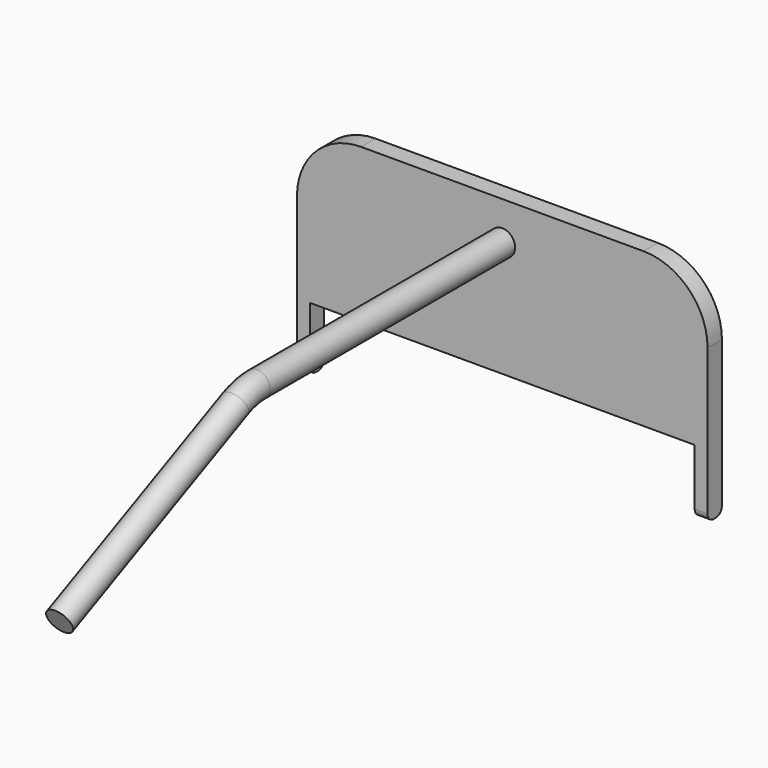
from build123d import *

# Parameters (mm, degrees)
F0_W          = 7
F0_H          = 60
F1_DEPTH      = 75
F1_DEPTH_BACK = 75
F2_W          = 7
F2_H          = 85
F3_DEPTH      = 5
F5_R          = 25
F6_R          = 3
F7_R          = 5


with BuildPart() as f1:
    # F0 (on Right) → F1 (new body, two sides)
    with BuildSketch(Plane.YZ) as f1_sk:
        Rectangle(F0_W, F0_H)
    extrude(amount=F1_DEPTH)
    extrude(f1_sk.sketch, amount=-F1_DEPTH_BACK)

    # F2 (on face) → F3 (join)
    with BuildSketch(Plane.YZ.offset(75)):
        with Locations((0, -12.5)):
            Rectangle(F2_W, F2_H)
    extrude(amount=F3_DEPTH)

    # F4: F1 across plane


with BuildPart() as f1_1:
    add(f1.part)
    add(f1.part.mirror(Plane.YZ))

    # F5
    f5_edges = [f1_1.edges().sort_by_distance(p)[0] for p in [
        (-80, 0, 30),
        (80, 0, 30),
    ]]
    fillet(f5_edges, radius=F5_R)

    # F6
    f6_edges = [f1_1.edges().sort_by_distance(p)[0] for p in [
        (-77.5, -3.5, -55),
        (77.5, -3.5, -55),
        (-77.5, 3.5, -55),
        (77.5, 3.5, -55),
    ]]
    fillet(f6_edges, radius=F6_R)


with BuildPart() as f9:
    # F9: sweep along a path in F8
    with BuildLine(Plane.YZ) as f9_path:
        Line((-3.5, 15), (-122.9576334339, 15))
        ThreePointArc((-122.9576334339, 15), (-128.3686237824, 14.407400178), (-133.5230899774, 12.6576946759))
        Line((-133.5230899774, 12.6576946759), (-219.1307787037, -27.2618261741))
    # F7 (on face) → F9 (sweep)
    with BuildSketch(Plane.XZ.offset(3.5)):
        with Locations((0, 15)):
            Circle(F7_R)
    sweep(path=f9_path.line)


solid = Compound([f1_1.part, f9.part])
